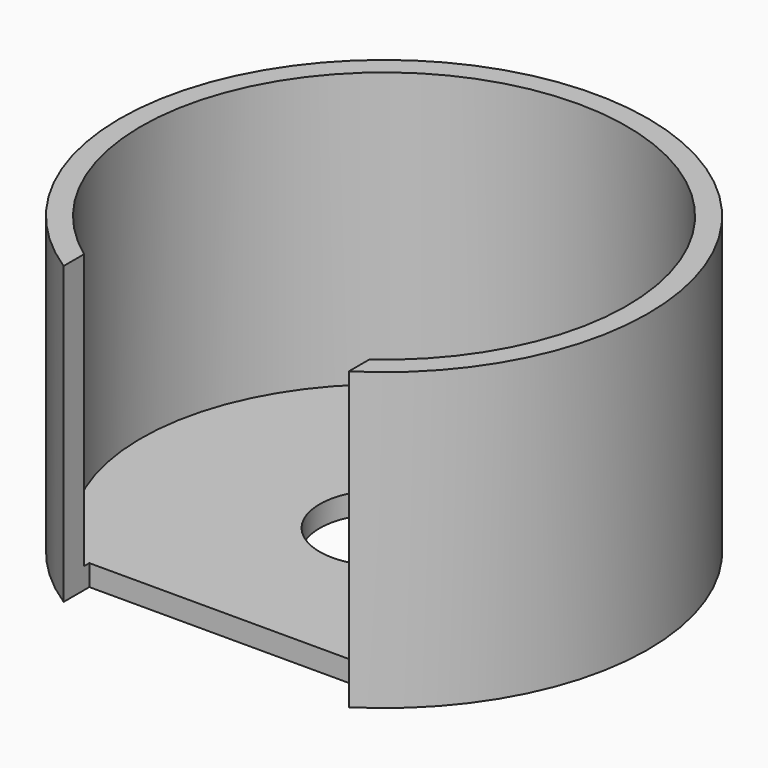
from build123d import *

# Parameters (mm, degrees)
BOX_W             = 2.7
BOX_H             = 2.7
BOX_DEPTH         = 10
CYLINDER003_R     = 0.61
CYLINDER003_DEPTH = 10
CYLINDER002_R     = 2.5
CYLINDER002_DEPTH = 2.8
THICKNESS_T       = -0.2


with BuildPart() as cube:
    # Box → Box (new body)
    with BuildSketch(Plane(origin=(-1.35, -4.5, 0), x_dir=(1, 0, 0), z_dir=(0, 0, 1))):
        with Locations((1.35, 1.35)):
            Rectangle(BOX_W, BOX_H)
    extrude(amount=BOX_DEPTH)


with BuildPart() as cylinder003:
    # Cylinder003 → Cylinder003 (new body)
    with BuildSketch(Plane.XY):
        Circle(CYLINDER003_R)
    extrude(amount=CYLINDER003_DEPTH)


with BuildPart() as bodyfront:
    # Cylinder002 → Cylinder002 (new body)
    with BuildSketch(Plane.XY):
        Circle(CYLINDER002_R)
    extrude(amount=CYLINDER002_DEPTH)

    # Thickness
    thickness_openings = [bodyfront.faces().sort_by_distance(p)[0] for p in [
        (0, 0, 2.8),
    ]]
    offset(amount=THICKNESS_T, openings=thickness_openings)


with BuildPart() as bodyfront_1:
    # Thickness placement: moved
    add(bodyfront.part.moved(Location((0, 0, 0.4))))

    # Cut002: cut Cylinder003
    add(cylinder003.part, mode=Mode.SUBTRACT)

    # Cut003: cut Cube
    add(cube.part, mode=Mode.SUBTRACT)


with BuildPart() as bodyfront_2:
    # Cut003 placement: moved
    add(bodyfront_1.part.moved(Location((0, 0, 0.1))))


solid = bodyfront_2.part
